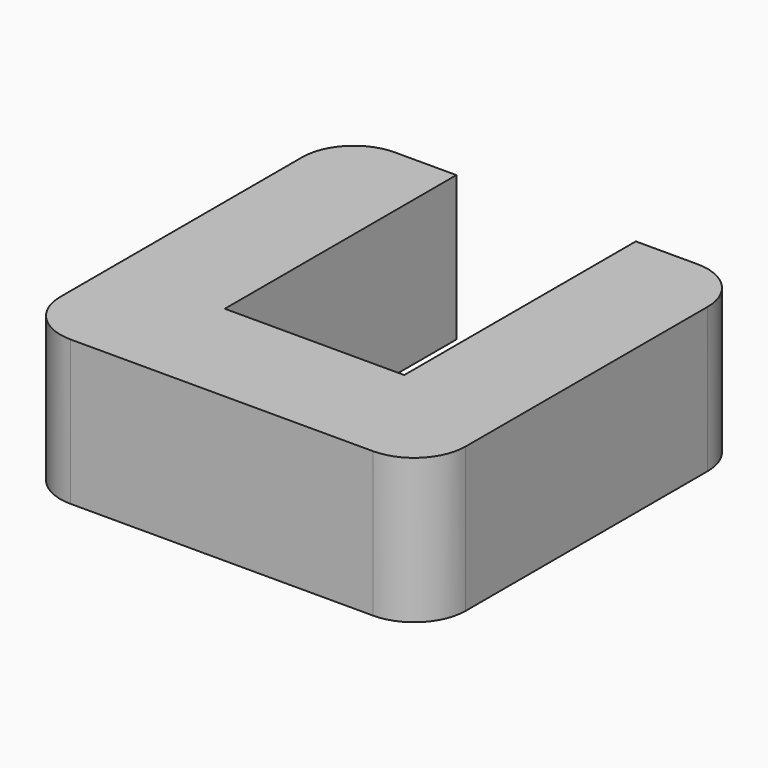
from build123d import *

# Parameters (mm, degrees)
F1_DEPTH = 5


with BuildPart() as f1:
    # F0 (on Top) → F1 (new body)
    with BuildSketch(Plane.XY):
        with BuildLine():
            Line((0, 12.222), (0, 1.778))
            ThreePointArc((0, 1.778), (0.520764, 0.520764), (1.778, 0))
            Line((1.778, 0), (12.222, 0))
            ThreePointArc((12.222, 0), (13.479236, 0.520764), (14, 1.778))
            Line((14, 1.778), (14, 12.222))
            ThreePointArc((14, 12.222), (13.479236, 13.479236), (12.222, 14))
            Line((12.222, 14), (10.1, 14))
            Line((10.1, 14), (10.1, 4))
            Line((10.1, 4), (3.9, 4))
            Line((3.9, 4), (3.9, 14))
            Line((3.9, 14), (1.778, 14))
            ThreePointArc((1.778, 14), (0.520764, 13.479236), (0, 12.222))
        make_face()
    extrude(amount=F1_DEPTH)


solid = f1.part
